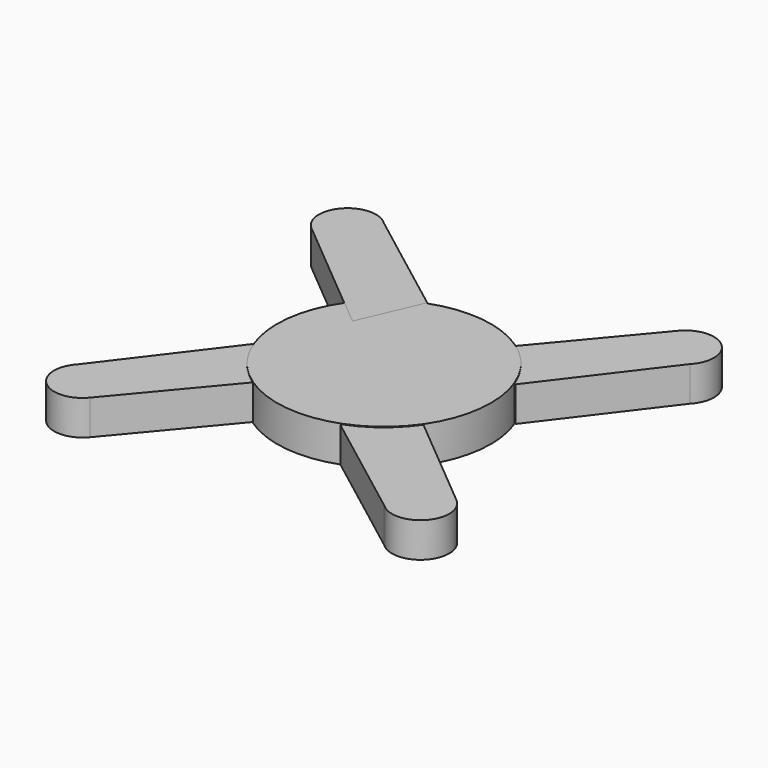
from build123d import *

# Parameters (mm, degrees)
F1_DEPTH = 7.112
F2_COUNT = 4
F3_DEPTH = 7.366
F5_DEPTH = 17.018


with BuildPart() as f1:
    # F0 (on Top) → F1 (new body, symmetric)
    with BuildSketch(Plane.XY):
        with BuildLine():
            ThreePointArc((-60.8904100955, 75.9912356734), (-77.660674423, 75.436099769), (-76.4783546329, 58.6983561516))
            Line((-76.4783546329, 58.6983561516), (-35.8995602644, 24.7846771363))
            ThreePointArc((-35.8995602644, 24.7846771363), (-26.9731732617, 34.2856613196), (-15.6379975806, 40.7248287853))
            Line((-15.6379975806, 40.7248287853), (-15.344383195, 41.405480355))
            Line((-15.344383195, 41.405480355), (-60.8904100955, 75.9912356734))
        make_face()
        with BuildLine():
            ThreePointArc((-15.6379975806, 40.7248287853), (-26.9731732617, 34.2856613196), (-35.8995602644, 24.7846771363))
            Line((-35.8995602644, 24.7846771363), (-26.0610952973, 16.5621917695))
            Line((-26.0610952973, 16.5621917695), (-15.6379975806, 40.7248287853))
        make_face()
    extrude(amount=F1_DEPTH, both=True)


with BuildPart() as f2_1:
    # F2: instance of F1
    add(f1.part.rotate(Axis((0, 0, 0), (0, 0, 1)), 1 * 360 / F2_COUNT))


with BuildPart() as f2_2:
    # F2: instance of F1
    add(f1.part.rotate(Axis((0, 0, 0), (0, 0, 1)), 2 * 360 / F2_COUNT))


with BuildPart() as f2_3:
    # F2: instance of F1
    add(f1.part.rotate(Axis((0, 0, 0), (0, 0, 1)), 3 * 360 / F2_COUNT))


with BuildPart() as f3:
    # F0 (on Top) → F3 (new body, symmetric)
    with BuildSketch(Plane.XY):
        with BuildLine():
            Line((-26.0610952973, 16.5621917695), (-35.8995602644, 24.7846771363))
            ThreePointArc((-35.8995602644, 24.7846771363), (-12.9802554239, -41.6481886408), (43.6240604246, 0))
            ThreePointArc((43.6240604246, 0), (24.7069392737, 35.9531055634), (-15.6379975806, 40.7248287853))
            Line((-15.6379975806, 40.7248287853), (-26.0610952973, 16.5621917695))
        make_face()
    extrude(amount=F3_DEPTH, both=True)


with BuildPart() as f5:
    # F4 (on Front) → F5 (new body, symmetric)
    with BuildSketch(Plane.XZ):
        with BuildLine():
            Line((5.5526872159, -10.4731516913), (-6.2016827239, -10.4731516913))
            ThreePointArc((-6.2016827239, -10.4731516913), (-11.095865375, -12.7772307605), (-12.4383680867, -18.0174111627))
            Line((-12.4383680867, -18.0174111627), (-11.6909584031, -21.920548752))
            Line((-11.6909584031, -21.920548752), (10.960274376, -21.920548752))
            Line((10.960274376, -21.920548752), (11.7636599875, -18.1446346576))
            ThreePointArc((11.7636599875, -18.1446346576), (10.4879641502, -12.8274613151), (5.5526872159, -10.4731516913))
        make_face()
    extrude(amount=F5_DEPTH, both=True)


solid = Compound([f1.part, f2_1.part, f2_2.part, f2_3.part, f3.part, f5.part])
